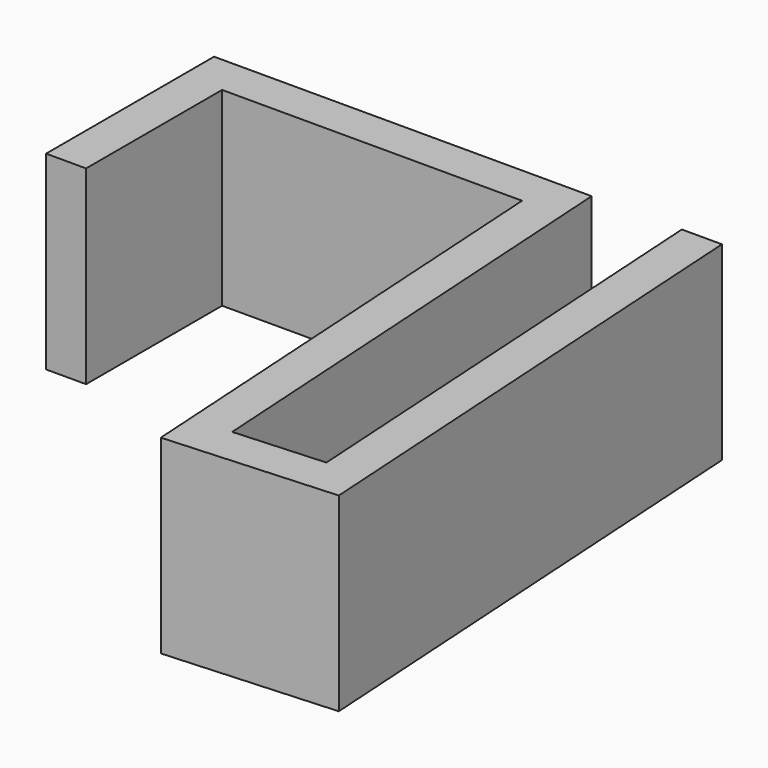
from build123d import *

# Parameters (mm, degrees)
PAD_DEPTH = 19


with BuildPart() as part:
    # Sketch → Pad (new body)
    with BuildSketch(Plane.XY):
        Polygon((0, 0), (0, 17), (30, 17), (33, -31.908077), (49.968108, -30.867261), (46.786593, 21), (42.779075, 21), (45.730714, -27.119663), (36.747598, -27.670683), (33.76216, 21), (-4, 21), (-4, 0), align=None)
    extrude(amount=PAD_DEPTH)


solid = part.part
